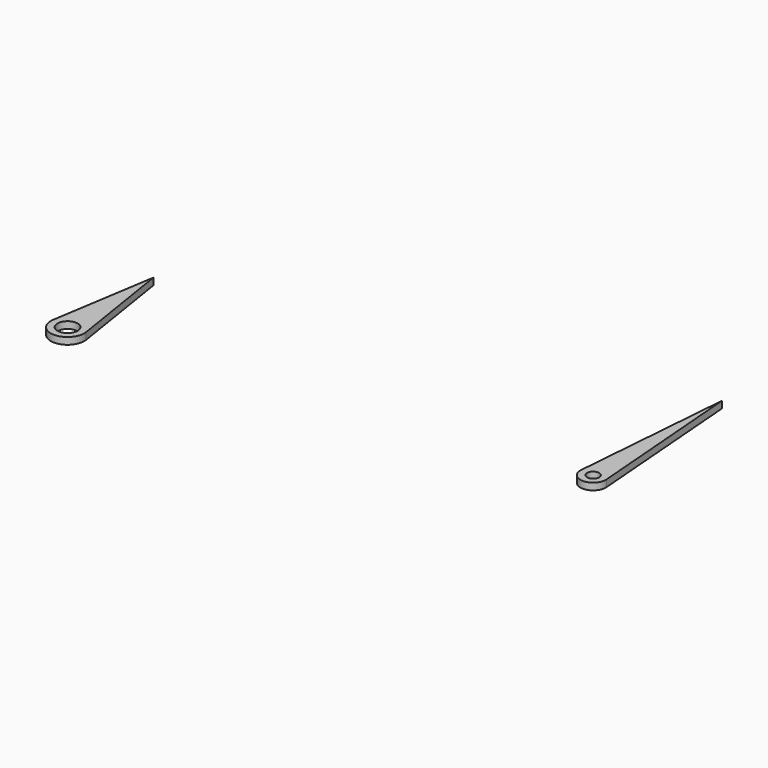
from build123d import *

# Parameters (mm, degrees)
F0_R     = 0.45
F1_DEPTH = 0.51
F2_R     = 0.75
F3_DEPTH = 0.51


with BuildPart() as f1:
    # F0 (on Top) → F1 (new body)
    with BuildSketch(Plane.XY):
        with BuildLine():
            Line((0, 12), (-0.947018, 0.075208))
            ThreePointArc((-0.947018, 0.075208), (0, -0.95), (0.947018, 0.075208))
            Line((0.947018, 0.075208), (0, 12))
        make_face()
        Circle(F0_R, mode=Mode.SUBTRACT)
    extrude(amount=F1_DEPTH)


with BuildPart() as f3:
    # F2 (on Top) → F3 (new body)
    with BuildSketch(Plane.XY):
        with BuildLine():
            Line((-35.537161, 3.456061), (-36.771808, -4.348627))
            ThreePointArc((-36.771808, -4.348627), (-35.537161, -5.793939), (-34.302514, -4.348627))
            Line((-34.302514, -4.348627), (-35.537161, 3.456061))
        make_face()
        with Locations((-35.537161, -4.543939)):
            Circle(F2_R, mode=Mode.SUBTRACT)
    extrude(amount=F3_DEPTH)


solid = Compound([f1.part, f3.part])
